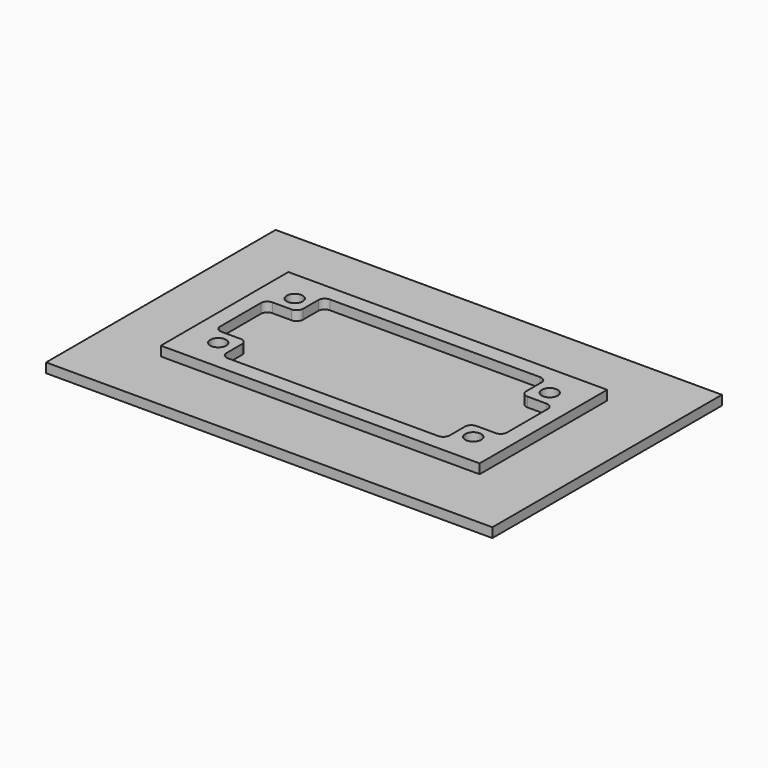
from build123d import *

# Parameters (mm, degrees)
F0_W     = 100
F0_H     = 50
F1_DEPTH = 6
F0_W_2   = 140
F0_H_2   = 90
F2_DEPTH = 3
F3_DEPTH = 3
F0_W_3   = 10
F0_H_3   = 10
F0_R     = 2.5
F4_DEPTH = 6
F5_DEPTH = 2
F6_R     = 2


with BuildPart() as f1:
    # F0 (on Top) → F1 (new body)
    with BuildSketch(Plane.XY):
        Rectangle(F0_W, F0_H)
        Polygon((-45, 10), (-45, 20), (-35, 20), (35, 20), (45, 20), (45, 10), (45, -10), (45, -20), (35, -20), (-35, -20), (-45, -20), (-45, -10), align=None, mode=Mode.SUBTRACT)
    extrude(amount=F1_DEPTH)

    # F0 (on Top) → F2 (join)
    with BuildSketch(Plane.XY):
        Rectangle(F0_W_2, F0_H_2)
        Rectangle(F0_W, F0_H, mode=Mode.SUBTRACT)
    extrude(amount=F2_DEPTH)

    # F0 (on Top) → F3 (join)
    with BuildSketch(Plane.XY):
        Rectangle(F0_W_2, F0_H_2)
        Rectangle(F0_W, F0_H, mode=Mode.SUBTRACT)
        Polygon((35, 20), (-35, 20), (-35, 10), (-45, 10), (-45, -10), (-35, -10), (-35, -20), (35, -20), (35, -10), (45, -10), (45, 10), (35, 10), align=None)
    extrude(amount=F3_DEPTH)

    # F0 (on Top) → F4 (join)
    with BuildSketch(Plane.XY):
        with Locations((-40, 15)):
            Rectangle(F0_W_3, F0_H_3)
        with Locations((-40, 15)):
            Circle(F0_R, mode=Mode.SUBTRACT)
        with Locations((40, 15)):
            Rectangle(F0_W_3, F0_H_3)
        with Locations((40, 15)):
            Circle(F0_R, mode=Mode.SUBTRACT)
        with Locations((40, -15)):
            Rectangle(F0_W_3, F0_H_3)
        with Locations((40, -15)):
            Circle(F0_R, mode=Mode.SUBTRACT)
        with Locations((-40, -15)):
            Rectangle(F0_W_3, F0_H_3)
        with Locations((-40, -15)):
            Circle(F0_R, mode=Mode.SUBTRACT)
    extrude(amount=F4_DEPTH)

    # F0 (on Top) → F5 (join)
    with BuildSketch(Plane.XY):
        with Locations((40, 15)):
            Circle(F0_R)
        with Locations((-40, 15)):
            Circle(F0_R)
        with Locations((40, -15)):
            Circle(F0_R)
        with Locations((-40, -15)):
            Circle(F0_R)
    extrude(amount=F5_DEPTH)

    # F6
    f6_edges = [f1.edges().sort_by_distance(p)[0] for p in [
        (-35, 10, 4.5),
        (35, 10, 4.5),
        (35, 20, 4.5),
        (45, 10, 4.5),
        (-35, 20, 4.5),
        (-45, 10, 4.5),
        (45, -10, 4.5),
        (35, -10, 4.5),
        (35, -20, 4.5),
        (-45, -10, 4.5),
        (-35, -10, 4.5),
        (-35, -20, 4.5),
    ]]
    fillet(f6_edges, radius=F6_R)


solid = f1.part
